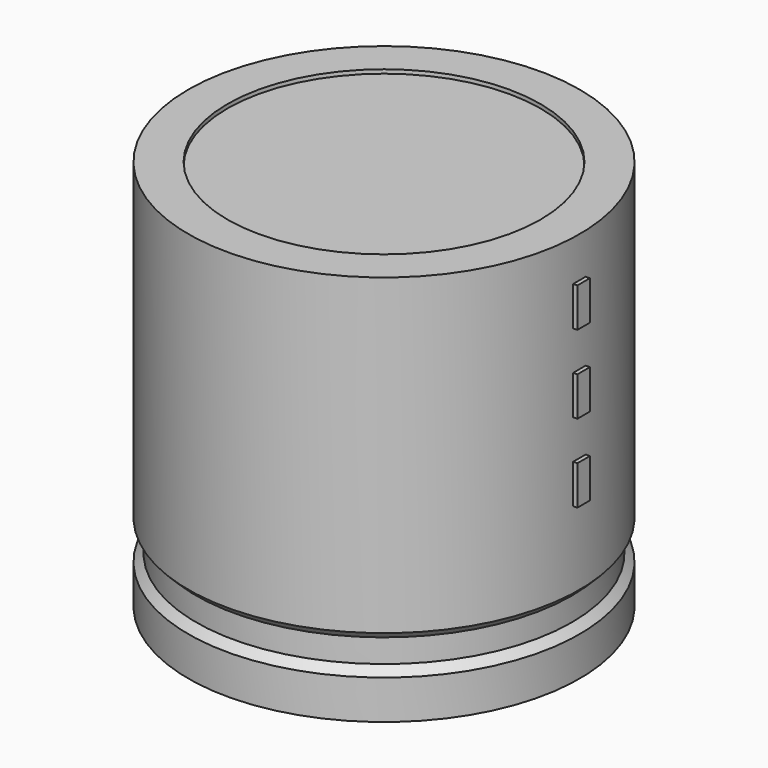
from build123d import *

# Parameters (mm, degrees)
SKETCH002_W   = 11.04
SKETCH002_H   = 23.52
SKETCH003_R   = 0.85
SKETCH003_R_2 = 1.1
PAD_DEPTH     = 5.4
SKETCH004_W   = 0.96
SKETCH004_H   = 2.4
PAD001_DEPTH  = 12.24


with BuildPart() as revolution:
    # Sketch → Revolution (revolve)
    with BuildSketch(Plane.XZ):
        Polygon((-7, 0.1), (-7, 2.5), (-6.52, 2.98), (-6.52, 4.42), (-7, 4.9), (-7, 24.1), (-4.6, 24.1), (-4.6, 0.1), align=None)
    revolve(axis=Axis((5, 0, 7.548619), (0, 0, -1)))


with BuildPart() as revolution001:
    # Sketch002 → Revolution001 (revolve)
    with BuildSketch(Plane.XZ):
        with Locations((-0.52, 12.1)):
            Rectangle(SKETCH002_W, SKETCH002_H)
    revolve(axis=Axis((5, 0, 4.680116), (0, 0, -1)))


with BuildPart() as pad:
    # Sketch003 → Pad (new body)
    with BuildSketch(Plane.XY.offset(2.4)):
        Circle(SKETCH003_R)
        with Locations((10, 0)):
            Circle(SKETCH003_R)
        with Locations((6.7, 4.75)):
            Circle(SKETCH003_R_2)
    extrude(amount=-PAD_DEPTH)


with BuildPart() as pad001:
    # Sketch004 → Pad001 (new body)
    with BuildSketch(Plane.YZ.offset(5)):
        with Locations((0, 10.8)):
            Rectangle(SKETCH004_W, SKETCH004_H)
        with Locations((0, 15.6)):
            Rectangle(SKETCH004_W, SKETCH004_H)
        with Locations((0, 20.4)):
            Rectangle(SKETCH004_W, SKETCH004_H)
    extrude(amount=PAD001_DEPTH)


solid = Compound([revolution.part, revolution001.part, pad.part, pad001.part])
